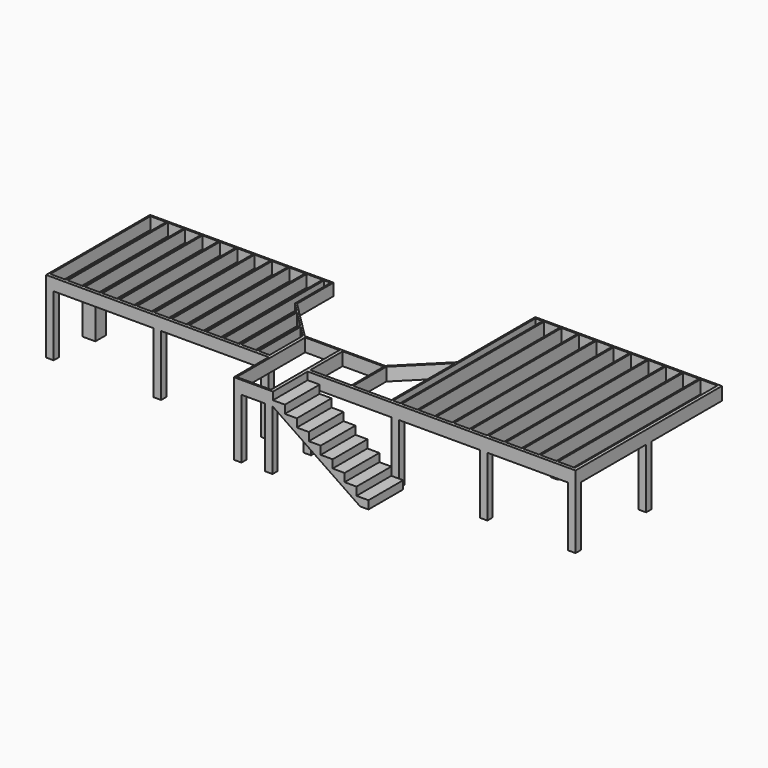
from build123d import *

# Parameters (mm, degrees)
F0_W      = 304.8
F0_H      = 304.8
F1_DEPTH  = 1422.4
F0_W_2    = 177.8
F0_H_2    = 152.4
F3_DEPTH  = 279.4
F4_W      = 5130.8
F4_H      = 38.1
F5_DEPTH  = 279.4
F6_W      = 38.1
F6_H      = 2927.8466365912
F7_DEPTH  = 279.4
F9_DEPTH  = 304.8
F10_W     = 914.4
F10_H     = 1016
F11_DEPTH = 304.8
F13_DEPTH = 1016
F14_W     = 177.8
F14_H     = 152.4
F15_DEPTH = 1397
F16_W     = 800.1
F16_H     = 2000.7466365912
F16_W_2   = 4254.5
F16_H_2   = 4166.5932731824
F16_W_3   = 965.2
F16_H_3   = 946.6466365912
F17_DEPTH = 304.8
F18_W     = 38.1
F18_H     = 4166.5932731824
F19_DEPTH = 304.8


with BuildPart() as f1:
    # F0 (on Top) → F1 (new body)
    with BuildSketch(Plane.XY):
        with Locations((152.4, -1828.8)):
            Rectangle(F0_W, F0_H)
    extrude(amount=F1_DEPTH)



with BuildPart() as f1b:
    # F0 (on Top) → F1, piece 2 (new body)
    with BuildSketch(Plane.XY):
        with Locations((88.9, -2965.9466365912)):
            Rectangle(F0_W_2, F0_H_2)
    extrude(amount=F1_DEPTH)


with BuildPart() as f1c:
    # F0 (on Top) → F1, piece 3 (new body)
    with BuildSketch(Plane.XY):
        with Locations((2603.5, -2965.9466365912)):
            Rectangle(F0_W_2, F0_H_2)
    extrude(amount=F1_DEPTH)


with BuildPart() as f1d:
    # F0 (on Top) → F1, piece 4 (new body)
    with BuildSketch(Plane.XY):
        with Locations((5118.1, -2965.9466365912)):
            Rectangle(F0_W_2, F0_H_2)
    extrude(amount=F1_DEPTH)


with BuildPart() as f1_1:
    add(f1.part)

    add(f1b.part)  # F3 merges F1b

    add(f1c.part)  # F3 merges F1c

    add(f1d.part)  # F3 merges F1d
    # F2 (on face) → F3 (join)
    with BuildSketch(Plane.XY.offset(1422.4)):
        Polygon((4292.6, 0), (0, 0), (0, -3042.1466365912), (5207, -3042.1466365912), (5207, -1981.2), (4292.6, -1066.8), align=None)
        Polygon((38.1, -38.1), (4254.5, -38.1), (4254.5, -1082.5815367264), (5168.9, -1996.9815367264), (5168.9, -3004.0466365912), (38.1, -3004.0466365912), align=None, mode=Mode.SUBTRACT)
    extrude(amount=F3_DEPTH)

    # F4 (on face) → F5 (join, through all)
    with BuildSketch(Plane.XY.offset(1422.4)):
        with Locations((2603.5, -2984.9966365912)):
            Rectangle(F4_W, F4_H)
    extrude(amount=F5_DEPTH)

    # F6 (on face) → F7 (join, through all)
    with BuildSketch(Plane.XY.offset(1422.4)):
        with Locations((425.45, -1502.0233182956)):
            Rectangle(F6_W, F6_H)
        with Locations((831.85, -1502.0233182956)):
            Rectangle(F6_W, F6_H)
        with Locations((1238.25, -1502.0233182956)):
            Rectangle(F6_W, F6_H)
        with Locations((1644.65, -1502.0233182956)):
            Rectangle(F6_W, F6_H)
        with Locations((2051.05, -1502.0233182956)):
            Rectangle(F6_W, F6_H)
        with Locations((2457.45, -1502.0233182956)):
            Rectangle(F6_W, F6_H)
        with Locations((2863.85, -1502.0233182956)):
            Rectangle(F6_W, F6_H)
        with Locations((3270.25, -1502.0233182956)):
            Rectangle(F6_W, F6_H)
        with Locations((3676.65, -1502.0233182956)):
            Rectangle(F6_W, F6_H)
        with Locations((4083.05, -1502.0233182956)):
            Rectangle(F6_W, F6_H)
        Polygon((4470.4, -1298.4815367264), (4470.4, -2965.9466365912), (4508.5, -2965.9466365912), (4508.5, -1336.5815367264), align=None)
        Polygon((4876.8, -1704.8815367264), (4876.8, -2965.9466365912), (4914.9, -2965.9466365912), (4914.9, -1742.9815367264), align=None)
    extrude(amount=F7_DEPTH)

    # F8 (on face) → F9 (join)
    with BuildSketch(Plane.XY.offset(1701.8)):
        Polygon((7086.6, -1981.2), (5207, -1981.2), (5207, -3042.1466365912), (12389.3466365912, -3042.1466365912), (12389.3466365912, 1238.7466365912), (8020.5466365912, 1238.7466365912), (8020.5466365912, -1047.2533634088), align=None)
    extrude(amount=-F9_DEPTH)

    # F10 (on face) → F11 (join, through all)
    with BuildSketch(Plane.XY.offset(1701.8)):
        with Locations((5664.2, -3550.1466365912)):
            Rectangle(F10_W, F10_H)
    extrude(amount=-F11_DEPTH)

    # F12 (on face) → F13 (join, through all)
    with BuildSketch(Plane.XZ.offset(4058.1466365912)):
        Polygon((6400.8, 1524), (6121.4, 1524), (6121.4, 1397), (6111.24, 1397), (8160.1733333333, 0), (8356.6, 0), (8356.6, 190.5), (8077.2, 190.5), (8077.2, 381), (7797.8, 381), (7797.8, 571.5), (7518.4, 571.5), (7518.4, 762), (7239, 762), (7239, 952.5), (6959.6, 952.5), (6959.6, 1143), (6680.2, 1143), (6680.2, 1333.5), (6400.8, 1333.5), align=None)
    extrude(amount=-F13_DEPTH)

    # F14 (on face) → F15 (join, through all)
    with BuildSketch(Plane(origin=(0, 0, 1397), x_dir=(1, 0, 0), z_dir=(0, 0, -1))):
        with Locations((5295.9, 3981.9466365912)):
            Rectangle(F14_W, F14_H)
        with Locations((6022.34, 3981.9466365912)):
            Rectangle(F14_W, F14_H)
        with Locations((6111.24, 2965.9466365912)):
            Rectangle(F14_W, F14_H)
        with Locations((10237.3777577275, 2965.9466365912)):
            Rectangle(F14_W, F14_H)
        with Locations((12300.4466365912, 2965.9466365912)):
            Rectangle(F14_W, F14_H)
        with Locations((8174.3088788637, 2965.9466365912)):
            Rectangle(F14_W, F14_H)
        with Locations((10237.3777577275, 901.7)):
            Rectangle(F14_W, F14_H)
        with Locations((12300.4466365912, 901.7)):
            Rectangle(F14_W, F14_H)
    extrude(amount=F15_DEPTH)

    # F16 (on face) → F17 (cut, through all)
    with BuildSketch(Plane.XY.offset(1701.8)):
        with Locations((5645.15, -3019.6733182956)):
            Rectangle(F16_W, F16_H)
        with Locations((10185.8966365912, -882.65)):
            Rectangle(F16_W_2, F16_H_2)
        with Locations((6604, -2492.6233182956)):
            Rectangle(F16_W_3, F16_H_3)
        Polygon((7124.7, -1996.9815367264), (7124.7, -2965.9466365912), (8020.5466365912, -2965.9466365912), (8020.5466365912, -1101.1349001352), align=None)
    extrude(amount=-F17_DEPTH, mode=Mode.SUBTRACT)

    # F18 (on face) → F19 (join, through all)
    with BuildSketch(Plane.XY.offset(1701.8)):
        with Locations((8242.7966365912, -882.65)):
            Rectangle(F18_W, F18_H)
        with Locations((8649.1966365912, -882.65)):
            Rectangle(F18_W, F18_H)
        with Locations((9055.5966365912, -882.65)):
            Rectangle(F18_W, F18_H)
        with Locations((9461.9966365912, -882.65)):
            Rectangle(F18_W, F18_H)
        with Locations((9868.3966365912, -882.65)):
            Rectangle(F18_W, F18_H)
        with Locations((10274.7966365912, -882.65)):
            Rectangle(F18_W, F18_H)
        with Locations((10681.1966365912, -882.65)):
            Rectangle(F18_W, F18_H)
        with Locations((11087.5966365912, -882.65)):
            Rectangle(F18_W, F18_H)
        with Locations((11493.9966365912, -882.65)):
            Rectangle(F18_W, F18_H)
        with Locations((11900.3966365912, -882.65)):
            Rectangle(F18_W, F18_H)
    extrude(amount=-F19_DEPTH)


solid = f1_1.part
